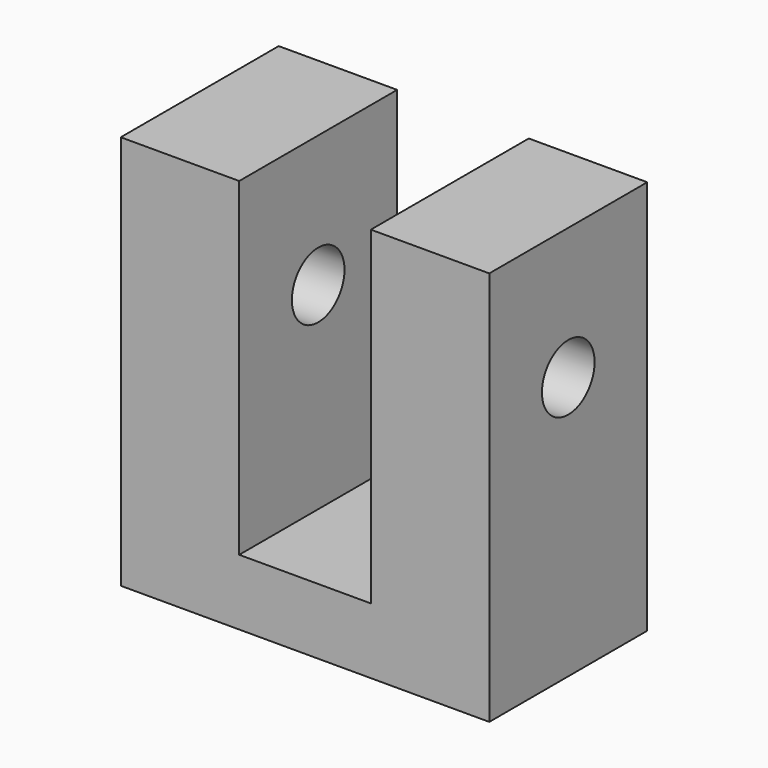
from build123d import *

# Parameters (mm, degrees)
F0_W     = 35.56
F0_H     = 38.1
F1_DEPTH = 19.05
F2_W     = 12.7
F2_H     = 31.75
F3_DEPTH = 25.4
F4_R     = 3.175
F5_DEPTH = 35.561
F6_R     = 3.175
F7_DEPTH = 12.7


with BuildPart() as f1:
    # F0 (on Front) → F1 (new body)
    with BuildSketch(Plane.XZ):
        with Locations((17.78, 19.05)):
            Rectangle(F0_W, F0_H)
    extrude(amount=F1_DEPTH)

    # F2 (on face) → F3 (cut)
    with BuildSketch(Plane.XZ.offset(19.05)):
        with Locations((17.78, 22.225)):
            Rectangle(F2_W, F2_H)
    extrude(amount=-F3_DEPTH, mode=Mode.SUBTRACT)

    # F4 (on face) → F5 (cut, through all)
    with BuildSketch(Plane.YZ.offset(35.56)):
        with Locations((-9.525, 25.4)):
            Circle(F4_R)
    extrude(amount=-F5_DEPTH, mode=Mode.SUBTRACT)

    # F6 (on face) → F7 (cut)
    with BuildSketch(Plane(origin=(0, 0, 0), x_dir=(1, 0, 0), z_dir=(0, 0, -1))):
        with Locations((4.7752, 12.7)):
            Circle(F6_R)
        with Locations((30.7848, 12.7)):
            Circle(F6_R)
    extrude(amount=-F7_DEPTH, mode=Mode.SUBTRACT)


solid = f1.part
